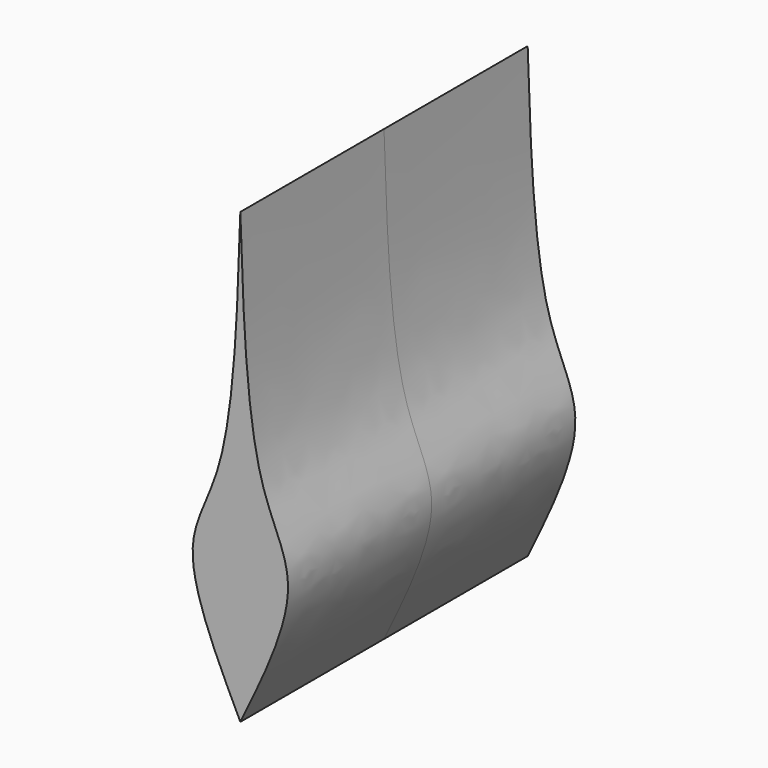
from build123d import *

# Parameters (mm, degrees)
F1_DEPTH = 25.4


with BuildPart() as f1:
    # F0 (on Front) → F1 (new body, symmetric)
    with BuildSketch(Plane.XZ):
        with BuildLine():
            add(Edge.make_bspline(
                [(0, 44.3436688867), (0.4191208199, 31.6748936906), (1.0889390676, 11.4282812612), (9.4231540136, 0.2399039664), (3.4086421778, -12.1401213721), (0, -19.1563311133)],
                knots=[0, 0, 0, 0, 0.4200675157, 0.6713312102, 1, 1, 1, 1], degree=3))
            add(Edge.make_bspline(
                [(0, 44.3436688867), (-0.4191208199, 31.6748936906), (-1.0889390676, 11.4282812612), (-9.4231540136, 0.2399039664), (-3.4086421778, -12.1401213721), (0, -19.1563311133)],
                knots=[0, 0, 0, 0, 0.4200675157, 0.6713312102, 1, 1, 1, 1], degree=3))
        make_face()
    extrude(amount=F1_DEPTH, both=True)


solid = f1.part
